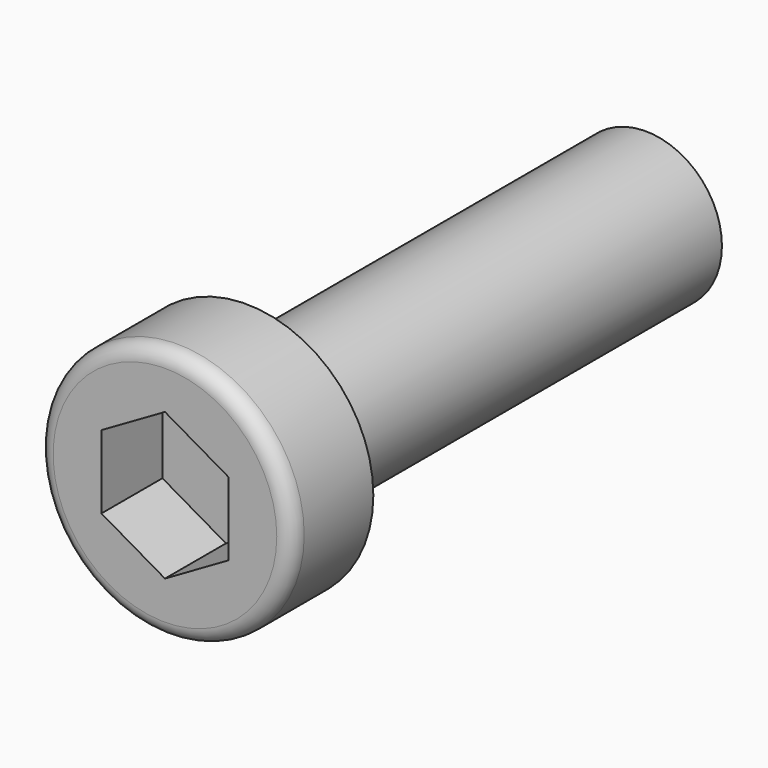
from build123d import *

# Parameters (mm, degrees)
POCKET_DEPTH = 3


with BuildPart() as part:
    # Sketch → Revolution (revolve)
    with BuildSketch(Plane.XY):
        with BuildLine():
            Line((3, 0), (5, 0))
            Line((5, 0), (5, -3.4))
            ThreePointArc((4.4, -4), (4.824264, -3.824264), (5, -3.4))
            Line((4.4, -4), (0, -4))
            Line((0, -4), (0, 20))
            Line((0, 20), (2.385, 20))
            Line((2.385, 20), (3, 19.64493))
            Line((3, 19.64493), (3, 0))
        make_face()
    revolve(axis=Axis((0, 0, 0), (0, 1, 0)))

    # Sketch001 → Pocket (cut)
    with BuildSketch(Plane.XZ.offset(4)):
        Polygon((-2.5, 1.443376), (-2.5, -1.443376), (0, -2.886751), (2.5, -1.443376), (2.5, 1.443376), (0, 2.886751), align=None)
    extrude(amount=-POCKET_DEPTH, mode=Mode.SUBTRACT)


solid = part.part
